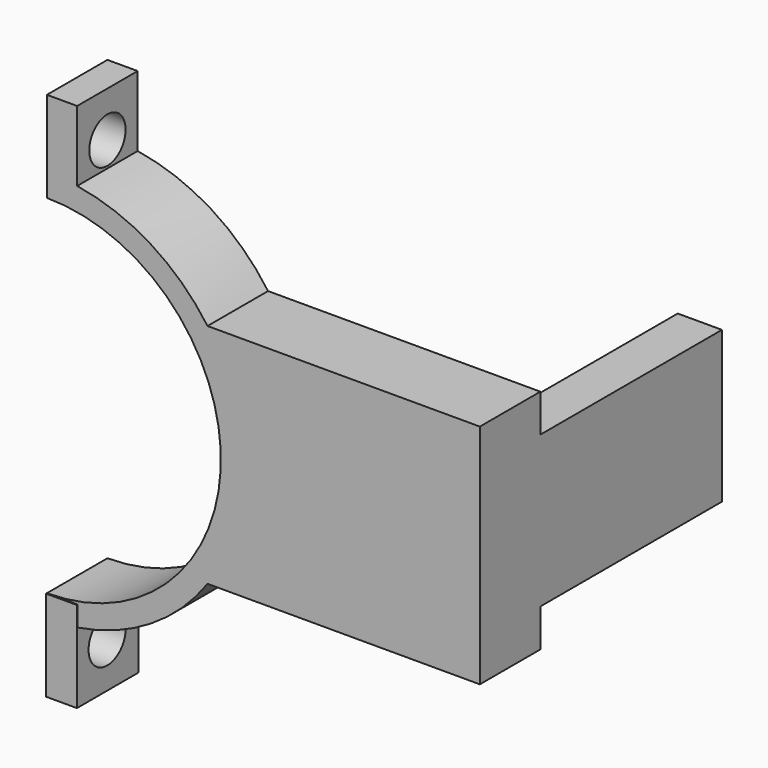
from build123d import *

# Parameters (mm, degrees)
F1_DEPTH      = 5
F2_R          = 11.5
F3_DEPTH      = 25
F4_W          = 19.7234917432
F4_H          = 22.7468013763
F5_DEPTH      = 20.501
F5_DEPTH_BACK = 50
F7_START      = 4
F6_W          = 2.0386253018
F6_H          = 5.0671915524
F7_DEPTH      = 6
F8_R          = 1.5364131309
F9_DEPTH      = 25
F10_W         = 2.9216879989
F10_H         = 10
F11_DEPTH     = 15
F13_START     = 4
F12_W         = 2
F12_H         = 5
F13_DEPTH     = 6
F14_R         = 1.5
F15_DEPTH     = 25


with BuildPart() as f1:
    # F0 (on Front) → F1 (new body)
    with BuildSketch(Plane.XZ):
        with BuildLine():
            Line((10.6183802908, -7.5), (28.6183802908, -7.5))
            Line((28.6183802908, -7.5), (28.6183802908, 7.5))
            Line((28.6183802908, 7.5), (10.6183802908, 7.5))
            ThreePointArc((10.6183802908, 7.5), (-13, 0), (10.6183802908, -7.5))
        make_face()
    extrude(amount=F1_DEPTH)

    # F2 (on face) → F3 (cut)
    with BuildSketch(Plane.XZ.offset(5)):
        Circle(F2_R)
    extrude(amount=-F3_DEPTH, mode=Mode.SUBTRACT)

    # F4 (on face) → F5 (cut, two sides)
    with BuildSketch(Plane(origin=(0, 0, -7.5), x_dir=(1, 0, 0), z_dir=(0, 0, -1))) as f5_sk:
        with Locations((-9.8617458716, 1.8715718761)):
            Rectangle(F4_W, F4_H)
    extrude(amount=-F5_DEPTH, mode=Mode.SUBTRACT)
    extrude(f5_sk.sketch, amount=F5_DEPTH_BACK, mode=Mode.SUBTRACT)

    # F6 (on face) → F7 (join)
    with BuildSketch(Plane(origin=(0, 0, -7.5), x_dir=(1, 0, 0), z_dir=(0, 0, -1)).offset(F7_START)):
        with Locations((1.0193126509, 2.5335957762)):
            Rectangle(F6_W, F6_H)
    extrude(amount=F7_DEPTH)

    # F8 (on face) → F9 (cut)
    with BuildSketch(Plane(origin=(0, 0, 0), x_dir=(0, -1, 0), z_dir=(-1, 0, 0))):
        with Locations((2.5671915524, -14.5)):
            Circle(F8_R)
    extrude(amount=-F9_DEPTH, mode=Mode.SUBTRACT)

    # F10 (on face) → F11 (join)
    with BuildSketch(Plane(origin=(0, 0, 0), x_dir=(-1, 0, 0), z_dir=(0, 1, 0))):
        with Locations((-27.1575362913, 0)):
            Rectangle(F10_W, F10_H)
    extrude(amount=F11_DEPTH)

    # F12 (on face) → F13 (join)
    with BuildSketch(Plane.XY.offset(7.5).offset(F13_START)):
        with Locations((1, -2.5)):
            Rectangle(F12_W, F12_H)
    extrude(amount=F13_DEPTH)

    # F14 (on face) → F15 (cut)
    with BuildSketch(Plane(origin=(0, 0, 0), x_dir=(0, -1, 0), z_dir=(-1, 0, 0))):
        with Locations((2.5, 14.5)):
            Circle(F14_R)
    extrude(amount=-F15_DEPTH, mode=Mode.SUBTRACT)


solid = f1.part
